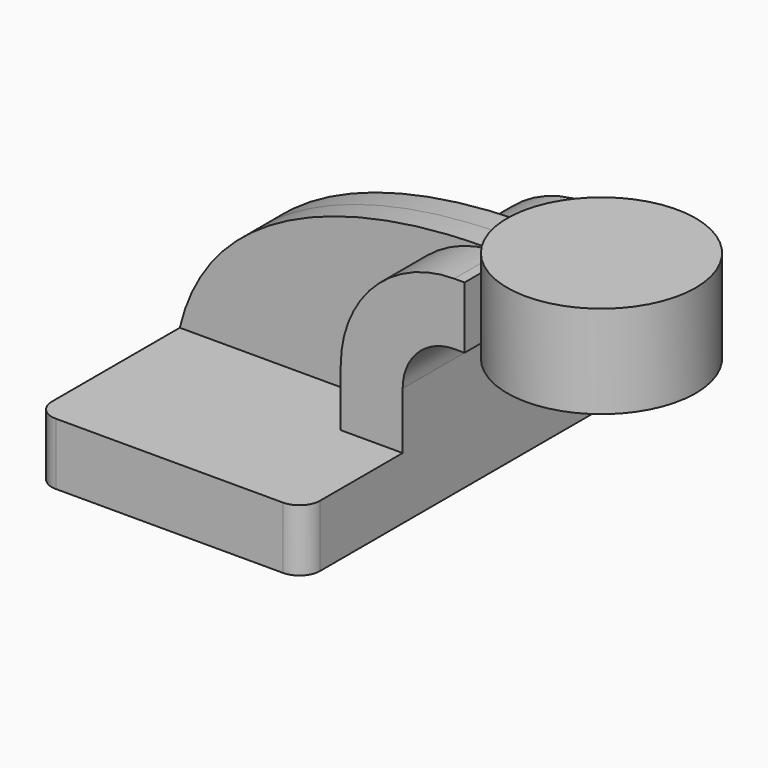
from build123d import *

# Parameters (mm, degrees)
F1_DEPTH = 63.5
F2_DEPTH = 25.4
F3_DEPTH = 7.9375
F5_R     = 6.35


with BuildPart() as f1:
    # F0 (on Front) → F1 (new body, symmetric)
    with BuildSketch(Plane.XZ):
        Polygon((-41.275, 9.525), (-41.275, -9.525), (41.275, -9.525), (41.275, 9.525), (22.225, 9.525), align=None)
    extrude(amount=F1_DEPTH, both=True)

    # F0 (on Front) → F2 (join, symmetric)
    with BuildSketch(Plane.XZ):
        with BuildLine():
            Line((22.225, 9.525), (41.275, 9.525))
            Line((41.275, 9.525), (41.275, 27.0002))
            ThreePointArc((41.275, 27.0002), (45.92468, 38.22552), (57.15, 42.8752))
            Line((57.15, 42.8752), (60.325, 42.8752))
            Line((60.325, 42.8752), (60.325, 61.9252))
            Line((60.325, 61.9252), (57.15, 61.9252))
            ThreePointArc((57.15, 61.9252), (32.454296, 51.695904), (22.225, 27.0002))
            Line((22.225, 27.0002), (22.225, 9.525))
        make_face()
    extrude(amount=F2_DEPTH, both=True)

    # F0 (on Front) → F3 (join, symmetric)
    with BuildSketch(Plane.XZ):
        with BuildLine():
            add(Edge.make_bspline(
                [(-41.275, 9.525), (-31.276178, 51.95152), (19.80542, 62.86972), (57.15, 61.9252)],
                knots=[0, 0, 0, 0, 111.504536, 111.504536, 111.504536, 111.504536], degree=3))
            Line((-41.275, 9.525), (22.225, 9.525))
            Line((22.225, 9.525), (22.225, 27.0002))
            ThreePointArc((22.225, 27.0002), (32.454296, 51.695904), (57.15, 61.9252))
        make_face()
    extrude(amount=F3_DEPTH, both=True)

    # F0 (on Front) → F4 (revolve)
    with BuildSketch(Plane.XZ):
        Polygon((82.134529, 66.675), (82.134529, 61.9252), (82.134529, 42.8752), (82.134529, 38.1), (111.125, 38.1), (111.125, 66.675), align=None)
    revolve(axis=Axis((82.134529, 0, 52.3875), (0, 0, -1)))

    # F5
    f5_edges = [f1.edges().sort_by_distance(p)[0] for p in [
        (41.275, -63.5, 0),
        (-41.275, -63.5, 0),
        (41.275, 63.5, 0),
        (-41.275, 63.5, 0),
    ]]
    fillet(f5_edges, radius=F5_R)


solid = f1.part
